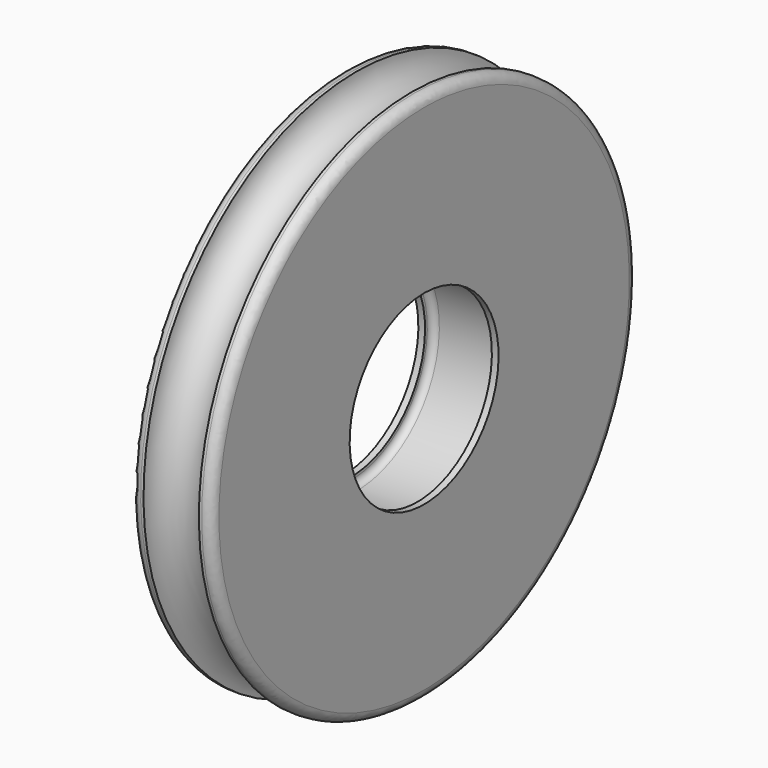
from build123d import *

# Parameters (mm, degrees)
F2_R = 0.7
F3_R = 1


with BuildPart() as f1:
    # F0 (on Front) → F1 (revolve)
    with BuildSketch(Plane.XZ):
        with BuildLine():
            Line((-8.371151, 27.86837), (-9.671151, 27.86837))
            Line((-9.671151, 27.86837), (-9.671151, 9.75))
            Line((-9.671151, 9.75), (-8.971151, 9.75))
            Line((-8.971151, 9.75), (-8.971151, 10.75))
            Line((-8.971151, 10.75), (-1.971151, 10.75))
            Line((-1.971151, 10.75), (-1.971151, 9.75))
            Line((-1.971151, 9.75), (-1.271151, 9.75))
            Line((-1.271151, 9.75), (-1.271496, 27.86837))
            Line((-1.271496, 27.86837), (-2.571496, 27.86837))
            ThreePointArc((-2.571496, 27.86837), (-5.471323, 25), (-8.371151, 27.86837))
        make_face()
    revolve(axis=Axis((-1.891199, 0, 0), (1, 0, 0)))

    # F2
    f2_edges = [f1.edges().sort_by_distance(p)[0] for p in [
        (-8.971151, 0, -10.75),
        (-1.971151, 0, -10.75),
    ]]
    fillet(f2_edges, radius=F2_R)

    # F3
    f3_edges = [f1.edges().sort_by_distance(p)[0] for p in [
        (-9.671151, 0, -27.86837),
        (-1.271496, 0, -27.86837),
    ]]
    fillet(f3_edges, radius=F3_R)


solid = f1.part
